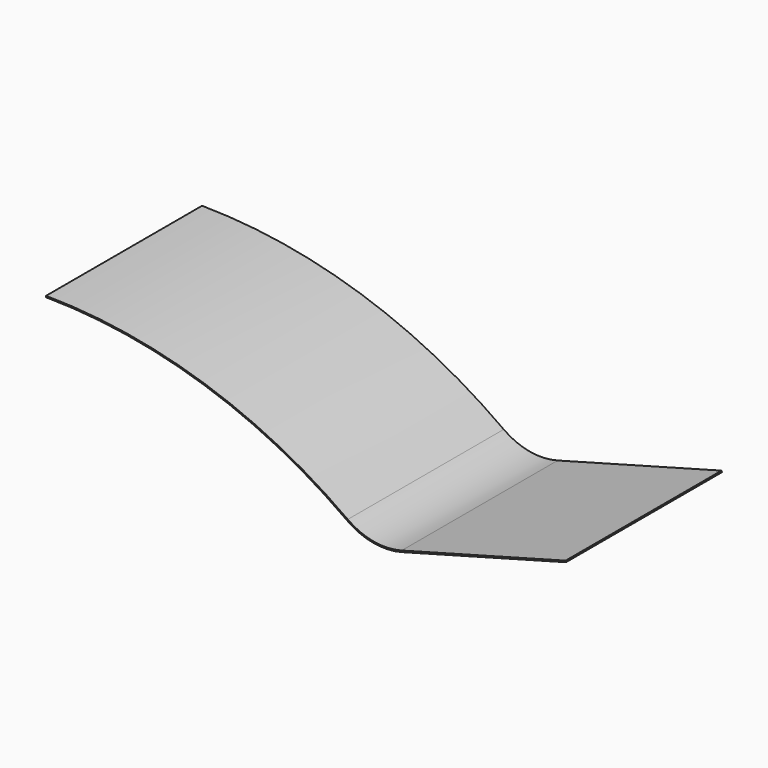
from build123d import *

# Parameters (mm, degrees)
F1_DEPTH      = 76.2
F1_DEPTH_BACK = 76.2


with BuildPart() as f1:
    # F0 (on Front) → F1 (new body, two sides)
    with BuildSketch(Plane.XZ) as f1_sk:
        with BuildLine():
            ThreePointArc((-254, 91.44), (-130.387837, 71.275903), (-18.785887, 14.429069))
            ThreePointArc((-18.785887, 14.429069), (1.842929, 5.628291), (24.250936, 6.567962))
            Line((24.250936, 6.567962), (152.4, 41.275))
            Line((152.4, 41.275), (152.121122, 42.304703))
            Line((152.121122, 42.304703), (23.972058, 7.597665))
            ThreePointArc((23.972058, 7.597665), (2.034619, 6.677728), (-18.160992, 15.29369))
            ThreePointArc((-18.160992, 15.29369), (-130.055897, 72.289746), (-253.992542, 92.506774))
            Line((-253.992542, 92.506774), (-254, 91.44))
        make_face()
    extrude(amount=F1_DEPTH)
    extrude(f1_sk.sketch, amount=-F1_DEPTH_BACK)


solid = f1.part
